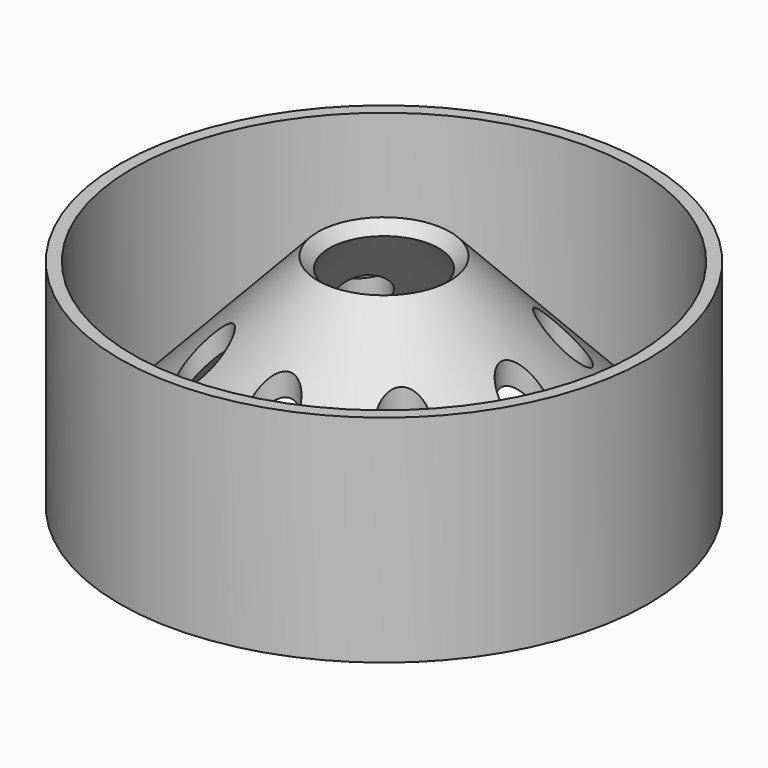
from build123d import *

# Parameters (mm, degrees)
F2_R     = 1.5
F3_DEPTH = 14.095403


with BuildPart() as f1:
    # F0 (on Front) → F1 (revolve)
    with BuildSketch(Plane.XZ):
        Polygon((-16.9, 13.8), (-16.9, 0), (-16.1, 0), (-3.5, 13.409639), (-4.228765, 14.094403), (-16.1, 1.460357), (-16.1, 13.8), align=None)
    revolve(axis=Axis((0, 0, 7), (0, 0, 1)))

    # F2 (on Top) → F3 (cut, through all)
    with BuildSketch(Plane.XY):
        with Locations((-6.363961, -6.363961)):
            Circle(F2_R)
        with Locations((0, -9)):
            Circle(F2_R)
        with Locations((6.363961, -6.363961)):
            Circle(F2_R)
        with Locations((9, 0)):
            Circle(F2_R)
        with Locations((6.363961, 6.363961)):
            Circle(F2_R)
        with Locations((0, 9)):
            Circle(F2_R)
        with Locations((-6.363961, 6.363961)):
            Circle(F2_R)
        with Locations((-9, 0)):
            Circle(F2_R)
    extrude(amount=F3_DEPTH, mode=Mode.SUBTRACT)


solid = f1.part
